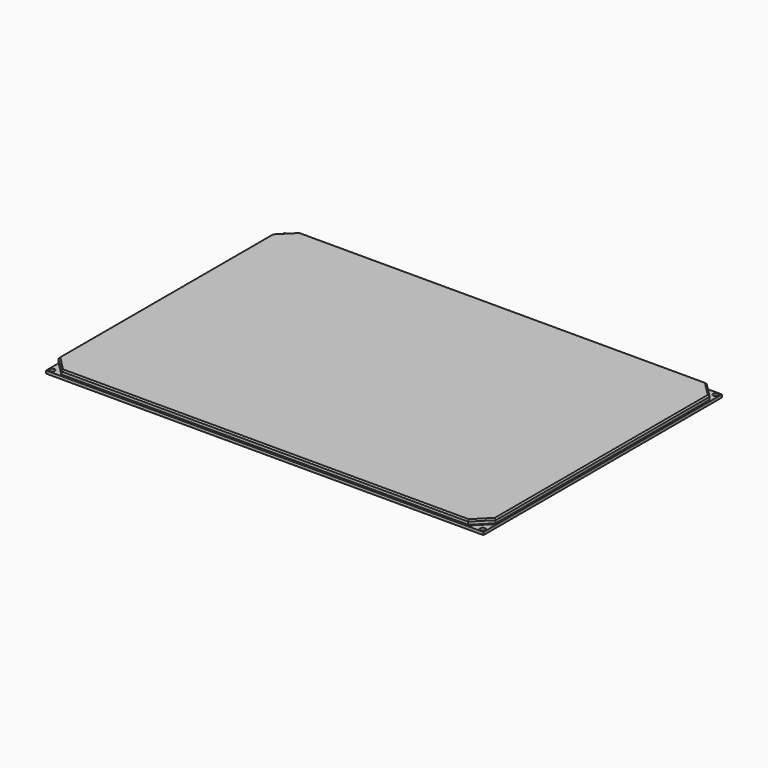
from build123d import *

# Parameters (mm, degrees)
F1_DEPTH = 4
F2_W     = 314
F2_H     = 214
F2_R     = 1.75
F3_DEPTH = 2
F4_SIZE  = 1


with BuildPart() as f1:
    # F0 (on Top) → F1 (new body)
    with BuildSketch(Plane.XY):
        Polygon((-146, 107), (-157, 96), (-157, -96), (-146, -107), (146, -107), (157, -96), (157, 96), (146, 107), align=None)
    extrude(amount=F1_DEPTH)

    # F4
    f4_edges = [f1.edges().sort_by_distance(p)[0] for p in [
        (-151.5, 101.5, 4),
        (-157, 0, 4),
        (-151.5, -101.5, 4),
        (0, -107, 4),
        (151.5, -101.5, 4),
        (157, 0, 4),
        (151.5, 101.5, 4),
        (0, 107, 4),
        (-151.5, 101.5, 0),
        (-157, 0, 0),
        (-151.5, -101.5, 0),
        (0, -107, 0),
        (151.5, -101.5, 0),
        (157, 0, 0),
        (151.5, 101.5, 0),
        (0, 107, 0),
    ]]
    chamfer(f4_edges, length=F4_SIZE)


with BuildPart() as f3:
    # F2 (on face) → F3 (new body)
    with BuildSketch(Plane(origin=(0, 0, 0), x_dir=(1, 0, 0), z_dir=(0, 0, -1))):
        Rectangle(F2_W, F2_H)
        with Locations((-154.5, -104.5)):
            Circle(F2_R, mode=Mode.SUBTRACT)
        with Locations((154.5, -104.5)):
            Circle(F2_R, mode=Mode.SUBTRACT)
        with Locations((-154.5, 104.5)):
            Circle(F2_R, mode=Mode.SUBTRACT)
        with Locations((154.5, 104.5)):
            Circle(F2_R, mode=Mode.SUBTRACT)
    extrude(amount=F3_DEPTH)


solid = Compound([f1.part, f3.part])
